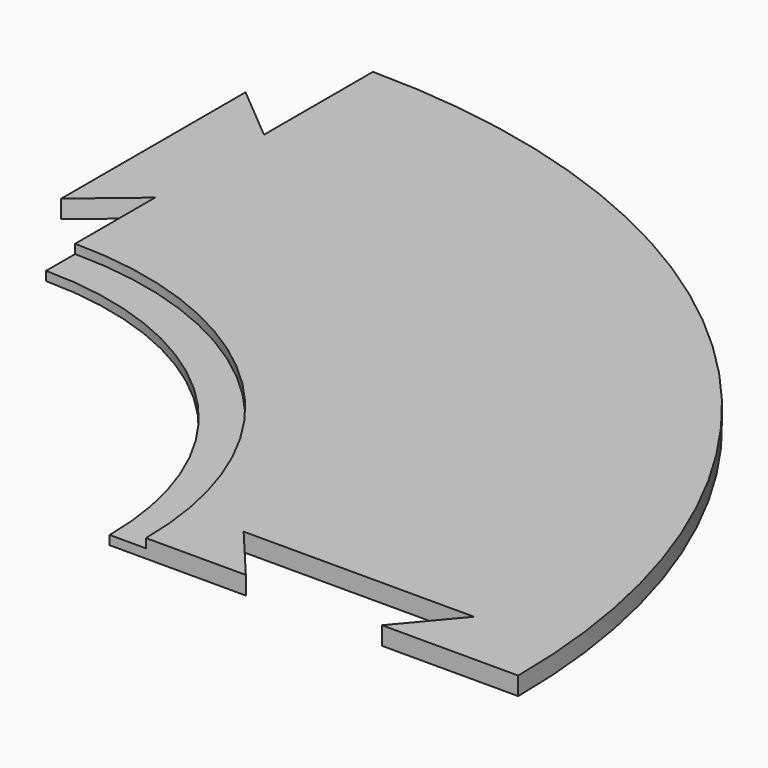
from build123d import *

# Parameters (mm, degrees)
F1_DEPTH = 2
F2_DEPTH = 1


with BuildPart() as f1:
    # F0 (on Top) → F1 (new body)
    with BuildSketch(Plane.XY):
        with BuildLine():
            Line((65, 0), (80, 0))
            ThreePointArc((80, 0), (56.568542, 56.568542), (0, 80))
            Line((0, 80), (0, 65))
            Line((0, 65), (-6.181441, 70.186845))
            Line((-6.181441, 70.186845), (-6.181441, 44.813155))
            Line((-6.181441, 44.813155), (0, 50))
            Line((0, 50), (0, 39))
            ThreePointArc((0, 39), (27.577164, 27.577164), (39, 0))
            Line((39, 0), (50, 0))
            Line((50, 0), (44.813155, 6.181441))
            Line((44.813155, 6.181441), (70.186845, 6.181441))
            Line((70.186845, 6.181441), (65, 0))
        make_face()
    extrude(amount=F1_DEPTH)

    # F0 (on Top) → F2 (join)
    with BuildSketch(Plane.XY):
        with BuildLine():
            Line((35, 0), (39, 0))
            ThreePointArc((39, 0), (27.577164, 27.577164), (0, 39))
            Line((0, 39), (0, 35))
            ThreePointArc((0, 35), (24.748737, 24.748737), (35, 0))
        make_face()
    extrude(amount=F2_DEPTH)


solid = f1.part
